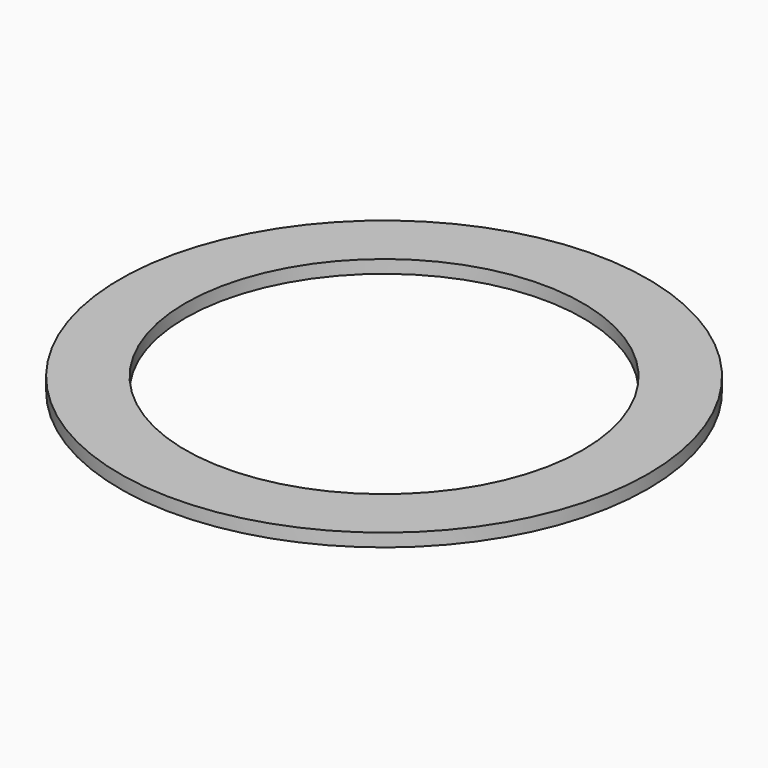
from build123d import *

# Parameters (mm, degrees)
SKETCH_R   = 20.25
SKETCH_R_2 = 15.25
PAD_DEPTH  = 1


with BuildPart() as part:
    # Sketch → Pad (new body)
    with BuildSketch(Plane.XY):
        Circle(SKETCH_R)
        Circle(SKETCH_R_2, mode=Mode.SUBTRACT)
    extrude(amount=PAD_DEPTH)


solid = part.part
